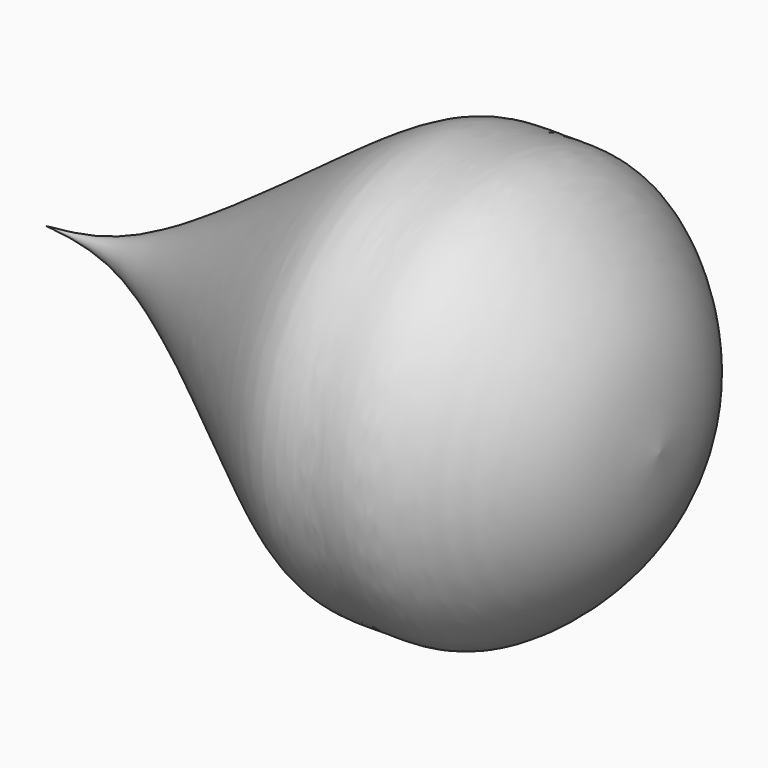
from build123d import *


with BuildPart() as f1:
    # F0 (on Front) → F1 (revolve)
    with BuildSketch(Plane.XZ):
        with BuildLine():
            add(Edge.make_bspline(
                [(-0.263624941, 0.131812194), (3.4860684087, 0.4396776755), (13.2615899292, 1.2422888116), (40.191221329, 22.6317453831), (49.0516848418, 27.2979772116), (56.2132017568, 26.8738915531), (64.3757014133, 27.4619647917), (78.0945644503, 14.5809758349), (79.1227700726, 4.8068736755), (79.614572227, 0.131812194)],
                knots=[0, 0, 0, 0, 0.1403175252, 0.3658104434, 0.4882317984, 0.5855477582, 0.6929802101, 0.8531490289, 1, 1, 1, 1], degree=3))
            Line((-0.263624941, 0.131812194), (79.614572227, 0.131812194))
        make_face()
    revolve(axis=Axis((39.675473643, 0, 0.131812194), (1, 0, 0)))


solid = f1.part
